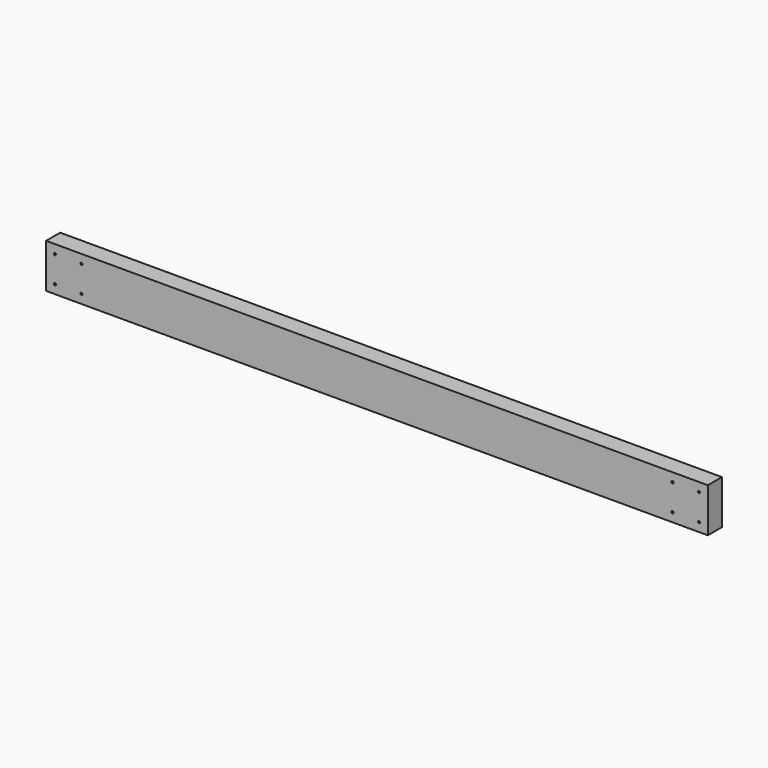
from build123d import *

# Parameters (mm, degrees)
F0_W     = 1500
F0_H     = 100
F1_DEPTH = 20
F3_D     = 5


with BuildPart() as f1:
    # F0 (on Front) → F1 (new body, symmetric)
    with BuildSketch(Plane.XZ):
        Rectangle(F0_W, F0_H)
    extrude(amount=F1_DEPTH, both=True)

    # F3 (through all)
    with Locations(Plane.XZ.offset(20)):
        with Locations((-730, 30), (-730, -30), (-670, 30), (-670, -30), (670, 30), (730, 30), (670, -30), (730, -30)):
            Hole(F3_D / 2)


solid = f1.part
